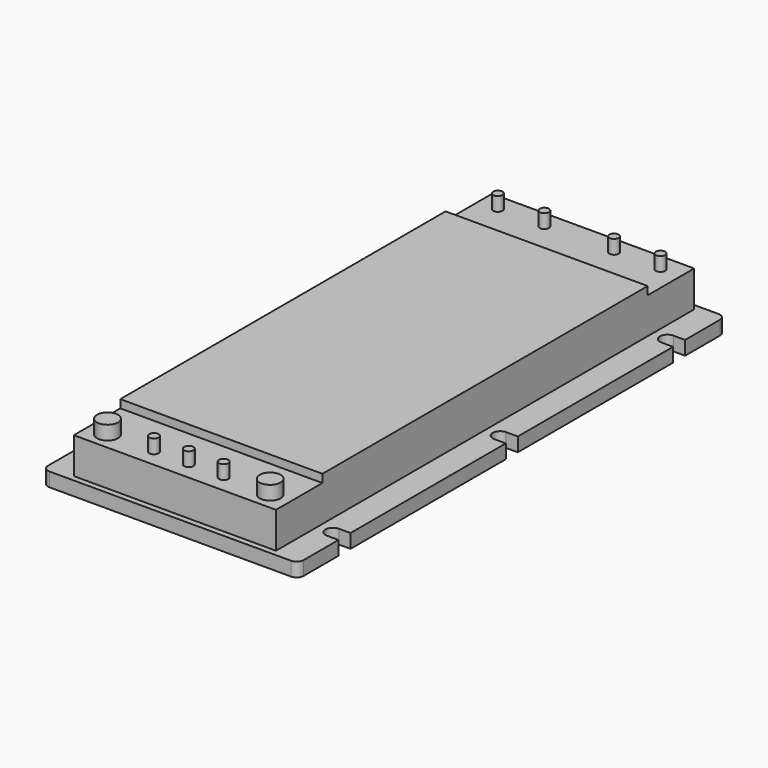
from build123d import *

# Parameters (mm, degrees)
F1_DEPTH  = 3.048
F2_SIZE   = 3.81
F3_R      = 1.524
F4_W      = 44.196
F4_H      = 114.3
F5_DEPTH  = 9.652
F6_W      = 44.196
F6_H      = 12.7
F7_DEPTH  = 1.778
F8_R      = 2.286
F9_DEPTH  = 3.048
F10_R     = 1.016
F11_DEPTH = 3.048


with BuildPart() as f1:
    # F0 (on Top) → F1 (new body)
    with BuildSketch(Plane.XY):
        with BuildLine():
            Line((-27.94, -58.42), (27.94, -58.42))
            Line((27.94, -58.42), (27.94, -47.3583))
            Line((27.94, -47.3583), (25.4, -47.3583))
            ThreePointArc((25.4, -47.3583), (23.7617, -45.72), (25.4, -44.0817))
            Line((25.4, -44.0817), (27.94, -44.0817))
            Line((27.94, -44.0817), (27.94, -1.6383))
            Line((27.94, -1.6383), (25.4, -1.6383))
            ThreePointArc((25.4, -1.6383), (23.7617, 0), (25.4, 1.6383))
            Line((25.4, 1.6383), (27.94, 1.6383))
            Line((27.94, 1.6383), (27.94, 44.0817))
            Line((27.94, 44.0817), (25.4, 44.0817))
            ThreePointArc((25.4, 44.0817), (23.7617, 45.72), (25.4, 47.3583))
            Line((25.4, 47.3583), (27.94, 47.3583))
            Line((27.94, 47.3583), (27.94, 58.42))
            Line((27.94, 58.42), (-27.94, 58.42))
            Line((-27.94, 58.42), (-27.94, 47.3583))
            Line((-27.94, 47.3583), (-25.4, 47.3583))
            ThreePointArc((-25.4, 47.3583), (-24.241547, 46.878453), (-23.7617, 45.72))
            ThreePointArc((-23.7617, 45.72), (-24.241547, 44.561547), (-25.4, 44.0817))
            Line((-25.4, 44.0817), (-27.94, 44.0817))
            Line((-27.94, 44.0817), (-27.94, 1.6383))
            Line((-27.94, 1.6383), (-25.4, 1.6383))
            ThreePointArc((-25.4, 1.6383), (-24.241547, 1.158453), (-23.7617, 0))
            ThreePointArc((-23.7617, 0), (-24.241547, -1.158453), (-25.4, -1.6383))
            Line((-25.4, -1.6383), (-27.94, -1.6383))
            Line((-27.94, -1.6383), (-27.94, -44.0817))
            Line((-27.94, -44.0817), (-25.4, -44.0817))
            ThreePointArc((-25.4, -44.0817), (-24.241547, -44.561547), (-23.7617, -45.72))
            ThreePointArc((-23.7617, -45.72), (-24.241547, -46.878453), (-25.4, -47.3583))
            Line((-25.4, -47.3583), (-27.94, -47.3583))
            Line((-27.94, -47.3583), (-27.94, -58.42))
        make_face()
    extrude(amount=F1_DEPTH)

    # F2
    f2_edges = [f1.edges().sort_by_distance(p)[0] for p in [
        (-27.94, 58.42, 1.524),
    ]]
    chamfer(f2_edges, length=F2_SIZE)

    # F3
    f3_edges = [f1.edges().sort_by_distance(p)[0] for p in [
        (27.94, 58.42, 1.524),
        (27.94, -58.42, 1.524),
        (-27.94, -58.42, 1.524),
    ]]
    fillet(f3_edges, radius=F3_R)

    # F4 (on face) → F5 (join)
    with BuildSketch(Plane.XY.offset(3.048)):
        Rectangle(F4_W, F4_H)
    extrude(amount=F5_DEPTH)

    # F6 (on face) → F7 (cut)
    with BuildSketch(Plane.XY.offset(12.7)):
        with Locations((0, -50.8)):
            Rectangle(F6_W, F6_H)
        with Locations((0, 50.8)):
            Rectangle(F6_W, F6_H)
    extrude(amount=-F7_DEPTH, mode=Mode.SUBTRACT)

    # F8 (on face) → F9 (join)
    with BuildSketch(Plane.XY.offset(10.922)):
        with Locations((-17.78, -53.34)):
            Circle(F8_R)
        with Locations((17.78, -53.34)):
            Circle(F8_R)
    extrude(amount=F9_DEPTH)

    # F10 (on face) → F11 (join, through all)
    with BuildSketch(Plane.XY.offset(10.922)):
        with Locations((-7.62, -53.34)):
            Circle(F10_R)
        with Locations((0, -53.34)):
            Circle(F10_R)
        with Locations((7.62, -53.34)):
            Circle(F10_R)
        with Locations((-17.78, 53.34)):
            Circle(F10_R)
        with Locations((-7.62, 53.34)):
            Circle(F10_R)
        with Locations((7.62, 53.34)):
            Circle(F10_R)
        with Locations((17.78, 53.34)):
            Circle(F10_R)
    extrude(amount=F11_DEPTH)


solid = f1.part
